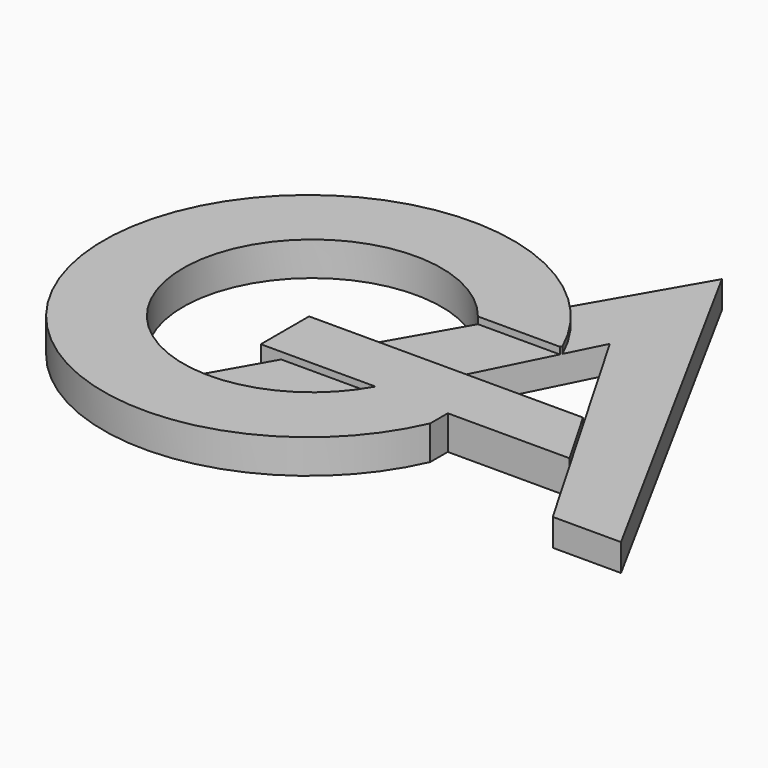
from build123d import *

# Parameters (mm, degrees)
F1_DEPTH = 5
F2_DEPTH = 4


with BuildPart() as f1:
    # F0 (on Top) → F1 (new body)
    with BuildSketch(Plane.XY):
        with BuildLine():
            Line((10.231988, 0), (0, 0))
            Line((0, 0), (-8.861162, 0))
            Line((-8.861162, 0), (-21.770434, 0))
            Line((-21.770434, 0), (-30, 0))
            Line((-30, 0), (-30, -8.861162))
            Line((-30, -8.861162), (-27.012251, -8.861162))
            Line((-27.012251, -8.861162), (-15.347982, -8.861162))
            Line((-15.347982, -8.861162), (-13.158839, -8.861162))
            ThreePointArc((-13.158839, -8.861162), (-15.940127, -12.678583), (-19.577444, -15.691587))
            ThreePointArc((-19.577444, -15.691587), (-25.775569, -18.237707), (-32.472153, -18.47271))
            ThreePointArc((-32.472153, -18.47271), (-46.232803, 9.810126), (-14.862012, 12.079))
            Line((-14.862012, 12.079), (-2.821662, 12.079))
            Line((-2.821662, 12.079), (-2.672152, 12.37802))
            ThreePointArc((-2.672152, 12.37802), (-5.602369, 17.474818), (-9.467672, 21.9046))
            ThreePointArc((-9.467672, 21.9046), (-59.585322, -6.011379), (-2.53916, -12.079))
            Line((-2.53916, -12.079), (-2.53916, -8.861162))
            Line((-2.53916, -8.861162), (0, -8.861162))
            Line((0, -8.861162), (15.347982, -8.861162))
            Line((15.347982, -8.861162), (10.231988, 0))
        make_face()
    extrude(amount=F1_DEPTH)

    # F0 (on Top) → F2 (join)
    with BuildSketch(Plane.XY):
        with BuildLine():
            Line((-27.012251, -8.861162), (-32.472153, -18.47271))
            ThreePointArc((-32.472153, -18.47271), (-25.775569, -18.237707), (-19.577444, -15.691587))
            Line((-19.577444, -15.691587), (-15.347982, -8.861162))
            Line((-15.347982, -8.861162), (-27.012251, -8.861162))
        make_face()
        Polygon((-21.770434, 0), (-8.861162, 0), (-2.821662, 12.079), (-14.862012, 12.079), align=None)
        with BuildLine():
            Line((0, 17.722324), (10.231988, 0))
            Line((10.231988, 0), (15.347982, -8.861162))
            Line((15.347982, -8.861162), (21.743801, -19.939045))
            Line((21.743801, -19.939045), (31.768438, -19.939045))
            Line((31.768438, -19.939045), (0, 38.303088))
            Line((0, 38.303088), (-9.467672, 21.9046))
            ThreePointArc((-9.467672, 21.9046), (-5.602369, 17.474818), (-2.672152, 12.37802))
            Line((-2.672152, 12.37802), (0, 17.722324))
        make_face()
    extrude(amount=F2_DEPTH)


solid = f1.part
